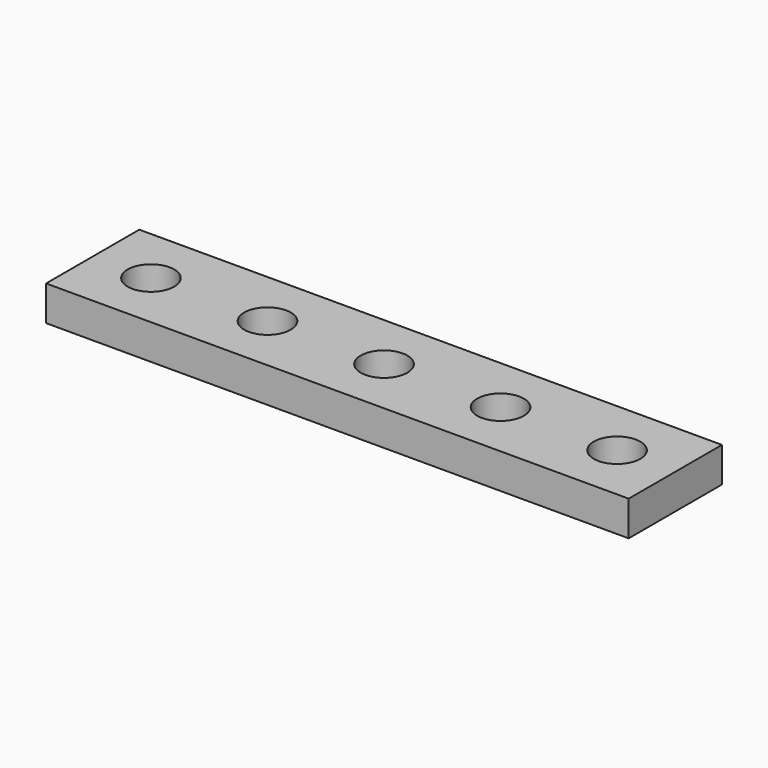
from build123d import *

# Parameters (mm, degrees)
SKETCH_W  = 50
SKETCH_H  = 10
SKETCH_R  = 2
PAD_DEPTH = 3


with BuildPart() as part:
    # Sketch → Pad (new body)
    with BuildSketch(Plane.XY):
        Rectangle(SKETCH_W, SKETCH_H)
        Circle(SKETCH_R, mode=Mode.SUBTRACT)
        with Locations((-10, 0)):
            Circle(SKETCH_R, mode=Mode.SUBTRACT)
        with Locations((-20, 0)):
            Circle(SKETCH_R, mode=Mode.SUBTRACT)
        with Locations((10, 0)):
            Circle(SKETCH_R, mode=Mode.SUBTRACT)
        with Locations((20, 0)):
            Circle(SKETCH_R, mode=Mode.SUBTRACT)
    extrude(amount=PAD_DEPTH)


solid = part.part
